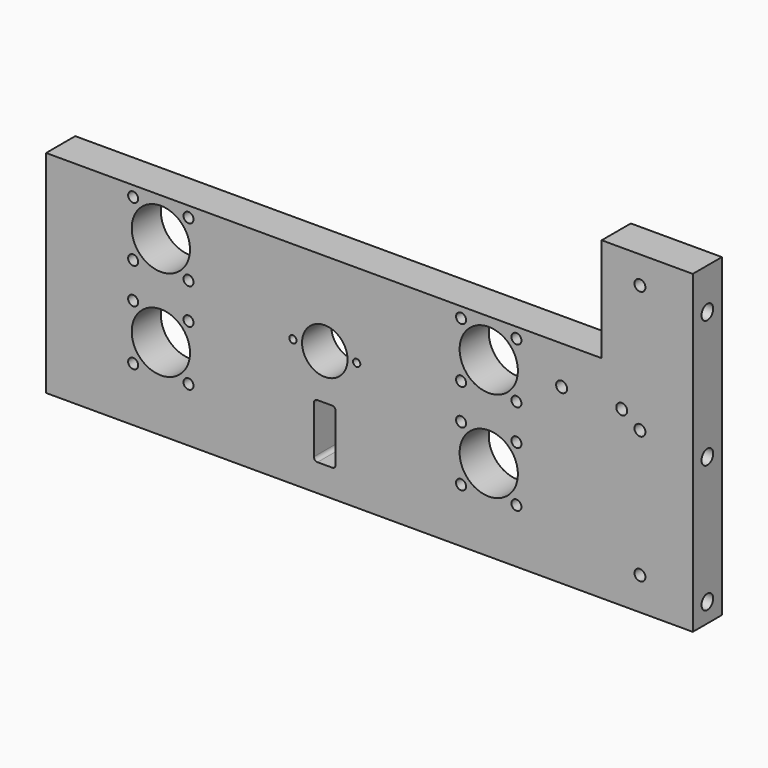
from build123d import *

# Parameters (mm, degrees)
F0_R     = 2.75
F0_R_2   = 16
F0_R_3   = 2
F0_R_4   = 12.5
F0_R_5   = 3
F1_DEPTH = 20
F3_D     = 8
F3_DEPTH = 20
F3_TIP   = 2.4034424761


with BuildPart() as f1:
    # F0 (on Front) → F1 (new body)
    with BuildSketch(Plane.XZ):
        Polygon((0, 115), (0, 0), (355, 0), (355, 173), (305, 173), (305, 116), (0, 116), align=None)
        with Locations((47.7972042045, 29.7972042045)):
            Circle(F0_R, mode=Mode.SUBTRACT)
        with Locations((78.2027957955, 29.7972042045)):
            Circle(F0_R, mode=Mode.SUBTRACT)
        with BuildLine():
            ThreePointArc((147, 43), (147.5857864376, 44.4142135624), (149, 45))
            Line((149, 45), (157, 45))
            ThreePointArc((157, 45), (158.4142135624, 44.4142135624), (159, 43))
            Line((159, 43), (159, 17))
            ThreePointArc((159, 17), (158.4142135624, 15.5857864376), (157, 15))
            Line((157, 15), (149, 15))
            ThreePointArc((149, 15), (147.5857864376, 15.5857864376), (147, 17))
            Line((147, 17), (147, 43))
        make_face(mode=Mode.SUBTRACT)
        with Locations((63, 45)):
            Circle(F0_R_2, mode=Mode.SUBTRACT)
        with Locations((47.7972042045, 60.2027957955)):
            Circle(F0_R, mode=Mode.SUBTRACT)
        with Locations((78.2027957955, 60.2027957955)):
            Circle(F0_R, mode=Mode.SUBTRACT)
        with Locations((47.7972042045, 79.7972042045)):
            Circle(F0_R, mode=Mode.SUBTRACT)
        with Locations((78.2027957955, 79.7972042045)):
            Circle(F0_R, mode=Mode.SUBTRACT)
        with Locations((135.5, 70)):
            Circle(F0_R_3, mode=Mode.SUBTRACT)
        with Locations((153, 70)):
            Circle(F0_R_4, mode=Mode.SUBTRACT)
        with Locations((170.5, 70)):
            Circle(F0_R_3, mode=Mode.SUBTRACT)
        with Locations((227.7972042045, 29.7972042045)):
            Circle(F0_R, mode=Mode.SUBTRACT)
        with Locations((258.2027957955, 29.7972042045)):
            Circle(F0_R, mode=Mode.SUBTRACT)
        with Locations((326, 18)):
            Circle(F0_R_5, mode=Mode.SUBTRACT)
        with Locations((243, 45)):
            Circle(F0_R_2, mode=Mode.SUBTRACT)
        with Locations((227.7972042045, 60.2027957955)):
            Circle(F0_R, mode=Mode.SUBTRACT)
        with Locations((258.2027957955, 60.2027957955)):
            Circle(F0_R, mode=Mode.SUBTRACT)
        with Locations((227.7972042045, 79.7972042045)):
            Circle(F0_R, mode=Mode.SUBTRACT)
        with Locations((258.2027957955, 79.7972042045)):
            Circle(F0_R, mode=Mode.SUBTRACT)
        with Locations((63, 95)):
            Circle(F0_R_2, mode=Mode.SUBTRACT)
        with Locations((47.7972042045, 110.2027957955)):
            Circle(F0_R, mode=Mode.SUBTRACT)
        with Locations((78.2027957955, 110.2027957955)):
            Circle(F0_R, mode=Mode.SUBTRACT)
        with Locations((243, 95)):
            Circle(F0_R_2, mode=Mode.SUBTRACT)
        with Locations((227.7972042045, 110.2027957955)):
            Circle(F0_R, mode=Mode.SUBTRACT)
        with Locations((258.2027957955, 110.2027957955)):
            Circle(F0_R, mode=Mode.SUBTRACT)
        with Locations((283, 95)):
            Circle(F0_R_5, mode=Mode.SUBTRACT)
        with Locations((326, 88)):
            Circle(F0_R_5, mode=Mode.SUBTRACT)
        with Locations((316, 95)):
            Circle(F0_R_5, mode=Mode.SUBTRACT)
        with Locations((326, 158)):
            Circle(F0_R_5, mode=Mode.SUBTRACT)
    extrude(amount=F1_DEPTH)

    # F3
    with Locations(Plane.YZ.offset(355)):
        with Locations((-10, 150.5), (-10, 80.5), (-10, 10.5)):
            Hole(F3_D / 2, depth=F3_DEPTH)
            with Locations((0, 0, -(F3_DEPTH + F3_TIP / 2))):  # 118° drill point
                Cone(0, F3_D / 2, F3_TIP, mode=Mode.SUBTRACT)


solid = f1.part
